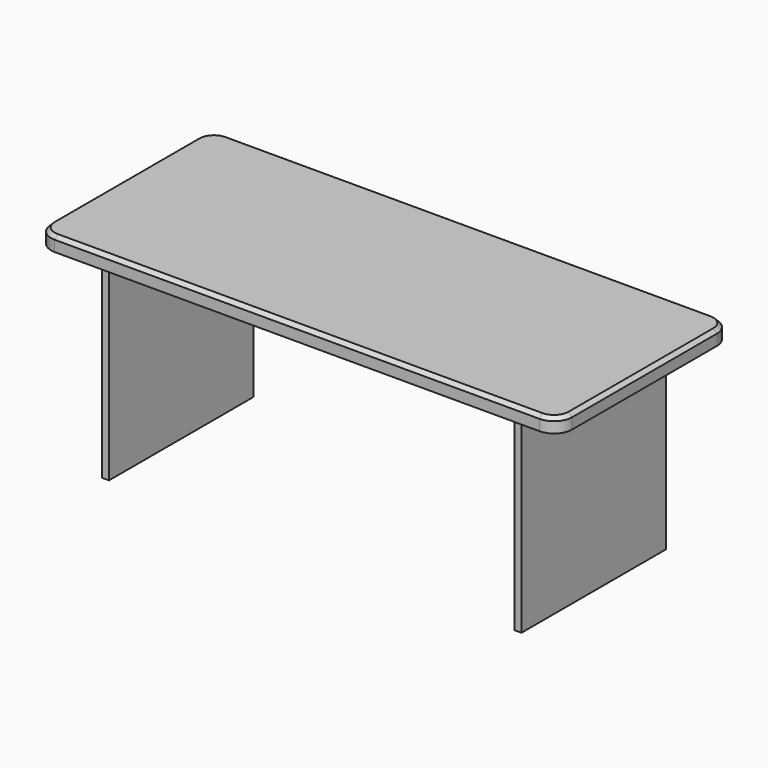
from build123d import *

# Parameters (mm, degrees)
F2_DEPTH = 50.8
F3_SIZE  = 12.7
F1_W     = 25.4
F1_H     = 635
F4_DEPTH = 685.8


with BuildPart() as f2:
    # F0 (on Top) → F2 (new body)
    with BuildSketch(Plane.XY):
        with BuildLine():
            ThreePointArc((0, 63.5), (18.598719, 18.598719), (63.5, 0))
            Line((63.5, 0), (1765.3, 0))
            ThreePointArc((1765.3, 0), (1810.201281, 18.598719), (1828.8, 63.5))
            Line((1828.8, 63.5), (1828.8, 698.5))
            ThreePointArc((1828.8, 698.5), (1810.201281, 743.401281), (1765.3, 762))
            Line((1765.3, 762), (63.5, 762))
            ThreePointArc((63.5, 762), (18.598719, 743.401281), (0, 698.5))
            Line((0, 698.5), (0, 63.5))
        make_face()
    extrude(amount=F2_DEPTH)

    # F3
    f3_edges = [f2.edges().sort_by_distance(p)[0] for p in [
        (0, 381, 50.8),
    ]]
    chamfer(f3_edges, length=F3_SIZE)

    # F1 (on Top) → F4 (join)
    with BuildSketch(Plane.XY):
        with Locations((190.5, 381)):
            Rectangle(F1_W, F1_H)
        with Locations((1638.3, 381)):
            Rectangle(F1_W, F1_H)
    extrude(amount=-F4_DEPTH)


solid = f2.part
